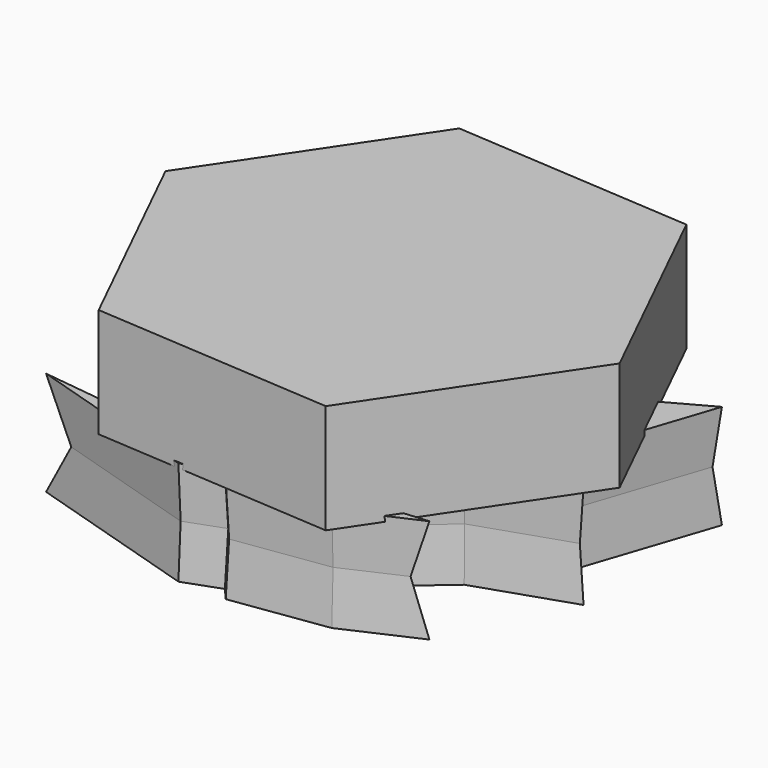
from build123d import *

# Parameters (mm, degrees)
F1_DEPTH = 12.7
F1_TAPER = -3
F4_DEPTH = 26.67


with BuildPart() as f1:
    # F0 (on Top) → F1 (new body, symmetric)
    with BuildSketch(Plane.XY):
        Polygon((21.6184195209, 7.5663379394), (0, 57.7939450741), (-18.8430193812, 7.5663379394), (-49.7523136437, 2.7367605362), (-55.2258342505, 7.5663379394), (-49.7523136437, -21.0891552269), (-55.2258342505, -32.3581695557), (-33.0097787082, -39.7635214031), (-18.8430193812, -56.1840869486), (-25.9263990447, -26.2407027185), (-14.3354125321, -5.9564788826), (0, 42.0173220336), (15.6079679728, -5.9564788826), (23.3352929354, -26.2407027185), (12.1019533125, -56.1840869486), (21.6184195209, -47.9738041759), (31.1348857293, -39.7635214031), (53.2786734402, -32.3581695557), (43.5563886989, -21.0891552269), (53.2786734402, 8.0776989971), (43.5563886989, 2.7367605362), align=None)
    extrude(amount=F1_DEPTH, both=True, taper=F1_TAPER)



with BuildPart() as f1b:
    # F0 (on Top) → F1, piece 2 (new body, symmetric)
    with BuildSketch(Plane.XY):
        Polygon((-11.8248015642, -66.1307200789), (-47.2033694386, -61.7764294147), (-11.8248015642, -72.6621448994), (-2.8174799701, -69.3964287639), (0, -72.6621448994), (22.7373447269, -69.3964287639), (36.6166271269, -63.1371475756), (0.9999356853, -66.1307200789), (-3.1162260566, -60.1435750723), align=None)
    extrude(amount=F1_DEPTH, both=True, taper=F1_TAPER)


with BuildPart() as f1c:
    # F0 (on Top) → F1, piece 3 (new body, symmetric)
    with BuildSketch(Plane.XY):
        Polygon((0.8631273334, 28.9342172231), (-4.2047975585, 11.9742853567), (0.8631273334, 20.1385710388), (6.6809146665, 12.5185707584), align=None)
    extrude(amount=F1_DEPTH, both=True, taper=F1_TAPER)


with BuildPart() as f1_1:
    add(f1.part)

    add(f1b.part)  # F4 merges F1b

    add(f1c.part)  # F4 merges F1c
    # F3 (on offset) → F4 (join)
    with BuildSketch(Plane.XY.offset(38.1)):
        Polygon((-25.8414804867, 29.7967293416), (-58.5228070686, -18.9110147883), (-32.6813265819, -71.5677459026), (25.8414804867, -75.5167328869), (58.5228070686, -26.8089887569), (32.6813265819, 25.8477423574), align=None)
    extrude(amount=-F4_DEPTH)


solid = f1_1.part
